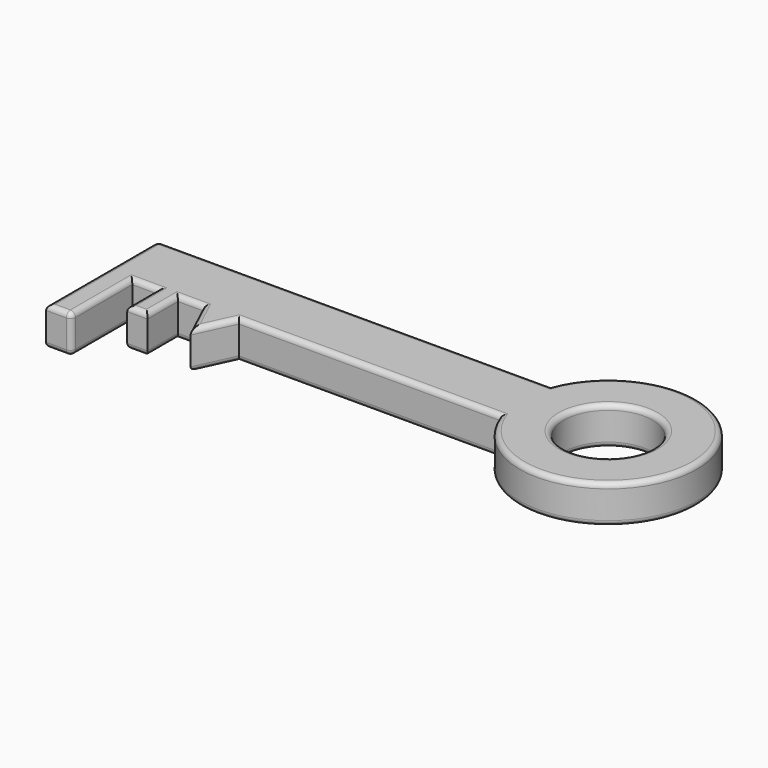
from build123d import *

# Parameters (mm, degrees)
F0_W     = 10
F0_H     = 30
F0_W_2   = 8
F0_H_2   = 15
F0_R     = 17.5
F1_DEPTH = 15
F2_R     = 2


with BuildPart() as f1:
    # F0 (on Top) → F1 (new body)
    with BuildSketch(Plane.XY):
        Polygon((-129.4432560775, 25), (-129.4432560775, 0), (-119.4432560775, 0), (-109.4432560775, 0), (-101.4432560775, 0), (-91.4432560775, 0), (-77.4432560775, 0), (25.5567439225, 0), (25.5567439225, 25), align=None)
        with Locations((-124.4432560775, -15)):
            Rectangle(F0_W, F0_H)
        with Locations((-105.4432560775, -7.5)):
            Rectangle(F0_W_2, F0_H_2)
        with BuildLine():
            ThreePointArc((25.5567439225, 0), (93.248485999, 12.5), (25.5567439225, 25))
            Line((25.5567439225, 25), (25.5567439225, 0))
        make_face()
        with Locations((58.248485999, 12.5)):
            Circle(F0_R, mode=Mode.SUBTRACT)
        Polygon((-77.4432560775, 0), (-91.4432560775, 0), (-84.4432560775, -15), align=None)
    extrude(amount=F1_DEPTH)

    # F2
    f2_edges = [f1.edges().sort_by_distance(p)[0] for p in [
        (-25.943256, 0, 15),
        (-80.943256, -7.5, 15),
        (93.248486, 12.5, 15),
        (-51.943256, 25, 15),
        (-87.943256, -7.5, 15),
        (-96.443256, 0, 15),
        (-101.443256, -7.5, 15),
        (-114.443256, 0, 15),
        (-119.443256, -15, 15),
        (-129.443256, -2.5, 15),
        (-124.443256, -30, 15),
        (-109.443256, -7.5, 15),
        (-105.443256, -15, 15),
        (40.748486, 12.5, 15),
        (-124.443256, -30, 0),
        (-119.443256, -15, 0),
        (-129.443256, -2.5, 0),
        (-51.943256, 25, 0),
        (-114.443256, 0, 0),
        (-109.443256, -7.5, 0),
        (-105.443256, -15, 0),
        (-87.943256, -7.5, 0),
        (-96.443256, 0, 0),
        (-101.443256, -7.5, 0),
        (-25.943256, 0, 0),
        (-80.943256, -7.5, 0),
        (93.248486, 12.5, 0),
        (40.748486, 12.5, 0),
        (-129.443256, 25, 7.5),
        (-119.443256, -30, 7.5),
    ]]
    fillet(f2_edges, radius=F2_R)


solid = f1.part
